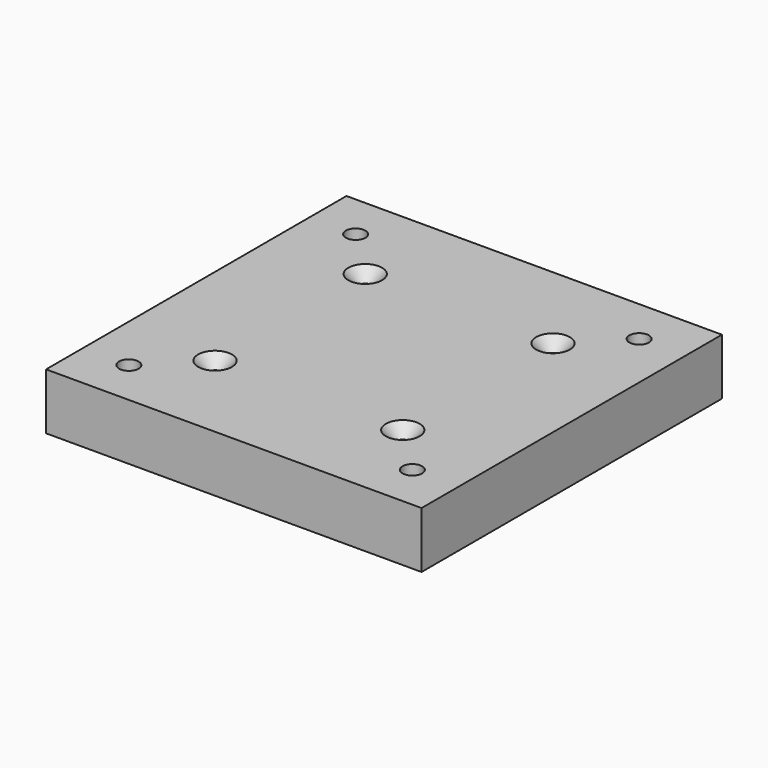
from build123d import *

# Parameters (mm, degrees)
F0_W     = 100
F0_H     = 100
F0_R     = 1.5
F0_R_2   = 2.6
F1_DEPTH = 15
F2_DEPTH = 4
F3_SIZE  = 3


with BuildPart() as f1:
    # F0 (on Top) → F1 (new body)
    with BuildSketch(Plane.XY):
        Rectangle(F0_W, F0_H)
        Polygon((-37.75, -33.131198), (-33.75, -35.440599), (-33.75, -40.059401), (-37.75, -42.368802), (-41.75, -40.059401), (-41.75, -35.440599), align=None, mode=Mode.SUBTRACT)
        with Locations((-25, -25)):
            Circle(F0_R, mode=Mode.SUBTRACT)
        Polygon((37.75, -33.131198), (41.75, -35.440599), (41.75, -40.059401), (37.75, -42.368802), (33.75, -40.059401), (33.75, -35.440599), align=None, mode=Mode.SUBTRACT)
        with Locations((25, -25)):
            Circle(F0_R, mode=Mode.SUBTRACT)
        Polygon((-37.75, 33.131198), (-41.75, 35.440599), (-41.75, 40.059401), (-37.75, 42.368802), (-33.75, 40.059401), (-33.75, 35.440599), align=None, mode=Mode.SUBTRACT)
        with Locations((-25, 25)):
            Circle(F0_R, mode=Mode.SUBTRACT)
        with Locations((25, 25)):
            Circle(F0_R, mode=Mode.SUBTRACT)
        Polygon((37.75, 42.368802), (41.75, 40.059401), (41.75, 35.440599), (37.75, 33.131198), (33.75, 35.440599), (33.75, 40.059401), align=None, mode=Mode.SUBTRACT)
        Polygon((41.75, 35.440599), (41.75, 40.059401), (37.75, 42.368802), (33.75, 40.059401), (33.75, 35.440599), (37.75, 33.131198), align=None)
        with Locations((37.75, 37.75)):
            Circle(F0_R_2, mode=Mode.SUBTRACT)
        Polygon((-41.75, 40.059401), (-41.75, 35.440599), (-37.75, 33.131198), (-33.75, 35.440599), (-33.75, 40.059401), (-37.75, 42.368802), align=None)
        with Locations((-37.75, 37.75)):
            Circle(F0_R_2, mode=Mode.SUBTRACT)
        Polygon((-33.75, -40.059401), (-33.75, -35.440599), (-37.75, -33.131198), (-41.75, -35.440599), (-41.75, -40.059401), (-37.75, -42.368802), align=None)
        with Locations((-37.75, -37.75)):
            Circle(F0_R_2, mode=Mode.SUBTRACT)
        Polygon((41.75, -40.059401), (41.75, -35.440599), (37.75, -33.131198), (33.75, -35.440599), (33.75, -40.059401), (37.75, -42.368802), align=None)
        with Locations((37.75, -37.75)):
            Circle(F0_R_2, mode=Mode.SUBTRACT)
    extrude(amount=F1_DEPTH)

    # F0 (on Top) → F2 (cut)
    with BuildSketch(Plane.XY):
        Polygon((-41.75, 40.059401), (-41.75, 35.440599), (-37.75, 33.131198), (-33.75, 35.440599), (-33.75, 40.059401), (-37.75, 42.368802), align=None)
        with Locations((-37.75, 37.75)):
            Circle(F0_R_2, mode=Mode.SUBTRACT)
        Polygon((41.75, 35.440599), (41.75, 40.059401), (37.75, 42.368802), (33.75, 40.059401), (33.75, 35.440599), (37.75, 33.131198), align=None)
        with Locations((37.75, 37.75)):
            Circle(F0_R_2, mode=Mode.SUBTRACT)
        Polygon((41.75, -40.059401), (41.75, -35.440599), (37.75, -33.131198), (33.75, -35.440599), (33.75, -40.059401), (37.75, -42.368802), align=None)
        with Locations((37.75, -37.75)):
            Circle(F0_R_2, mode=Mode.SUBTRACT)
        Polygon((-33.75, -40.059401), (-33.75, -35.440599), (-37.75, -33.131198), (-41.75, -35.440599), (-41.75, -40.059401), (-37.75, -42.368802), align=None)
        with Locations((-37.75, -37.75)):
            Circle(F0_R_2, mode=Mode.SUBTRACT)
    extrude(amount=F2_DEPTH, mode=Mode.SUBTRACT)

    # F3
    f3_edges = [f1.edges().sort_by_distance(p)[0] for p in [
        (-26.5, 25, 15),
        (23.5, 25, 15),
        (23.5, -25, 15),
        (-26.5, -25, 15),
    ]]
    chamfer(f3_edges, length=F3_SIZE)


solid = f1.part
